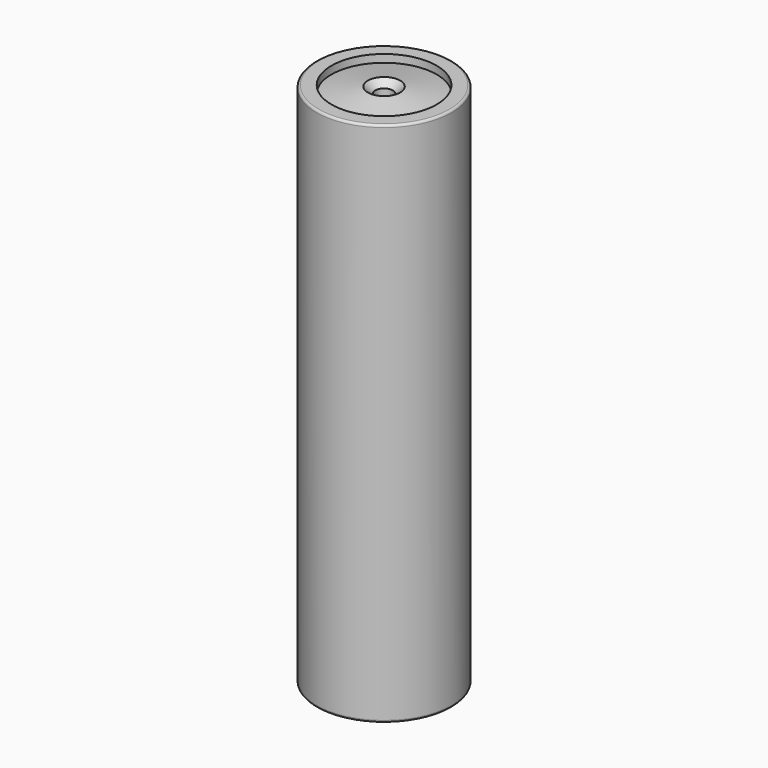
from build123d import *

# Parameters (mm, degrees)
F0_R     = 9
F0_R_2   = 7
F1_DEPTH = 70
F4_DEPTH = 25
F5_SIZE  = 1
F6_R     = 0.3


with BuildPart() as f1:
    # F0 (on Top) → F1 (new body)
    with BuildSketch(Plane.XY):
        Circle(F0_R)
        Circle(F0_R_2, mode=Mode.SUBTRACT)
    extrude(amount=F1_DEPTH)

    # F6
    f6_edges = [f1.edges().sort_by_distance(p)[0] for p in [
        (-9, 0, 70),
        (-9, 0, 0),
        (-7, 0, 0),
    ]]
    fillet(f6_edges, radius=F6_R)


with BuildPart() as f3:
    # F2 (on Right) → F3 (revolve)
    with BuildSketch(Plane.YZ):
        Polygon((7, 20.9717558716), (7, 68.9717558716), (1.1685377685, 70), (0, 70), (0, 20.9717558716), align=None)
    revolve(axis=Axis((0, 0, 45.4858779358), (0, 0, -1)))

    # F4 (cut): a face of the model
    f4_faces = [f3.faces().sort_by_distance(p)[0] for p in [
        (0, 0, 70),
    ]]
    extrude(f4_faces, amount=-F4_DEPTH, mode=Mode.SUBTRACT)

    # F5
    f5_edges = [f3.edges().sort_by_distance(p)[0] for p in [
        (0, -1.168538, 70),
    ]]
    chamfer(f5_edges, length=F5_SIZE)


solid = Compound([f1.part, f3.part])
